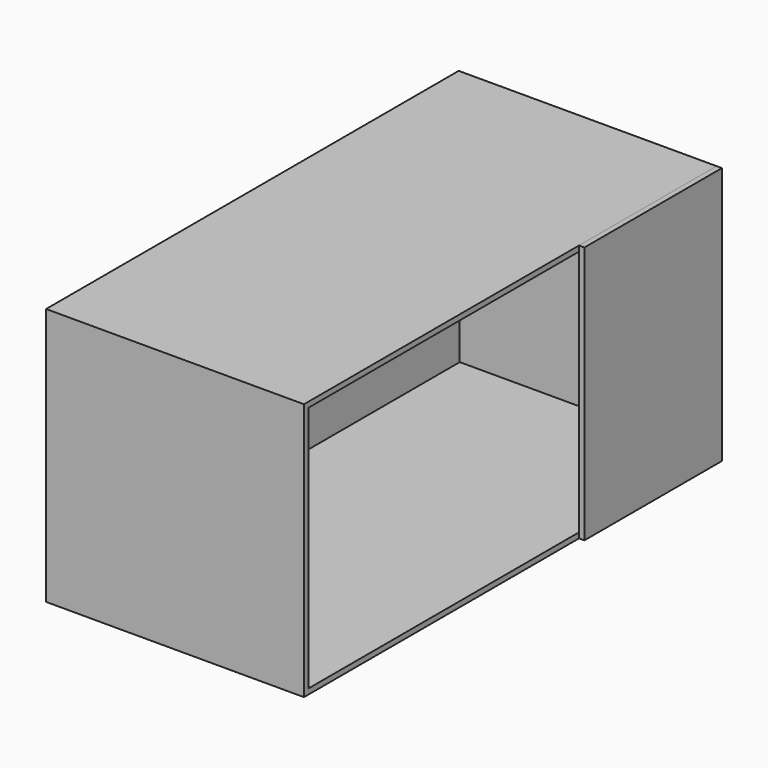
from build123d import *

# Parameters (mm, degrees)
F0_W     = 1219.2
F0_H     = 609.6
F1_DEPTH = 609.6
F2_W     = 1193.8
F2_H     = 584.2
F3_DEPTH = 596.9
F4_W     = 406.4
F4_H     = 609.6
F5_DEPTH = 12.7


with BuildPart() as f1:
    # F0 (on Right) → F1 (new body)
    with BuildSketch(Plane.YZ):
        with Locations((-6.29086, 51.711194)):
            Rectangle(F0_W, F0_H)
    extrude(amount=F1_DEPTH)

    # F2 (on face) → F3 (cut)
    with BuildSketch(Plane.YZ.offset(609.6)):
        with Locations((-6.29086, 51.711194)):
            Rectangle(F2_W, F2_H)
    extrude(amount=-F3_DEPTH, mode=Mode.SUBTRACT)


with BuildPart() as f5:
    # F4 (on face) → F5 (new body)
    with BuildSketch(Plane.YZ.offset(609.6)):
        with Locations((400.10914, 51.711194)):
            Rectangle(F4_W, F4_H)
    extrude(amount=F5_DEPTH)


solid = Compound([f1.part, f5.part])
